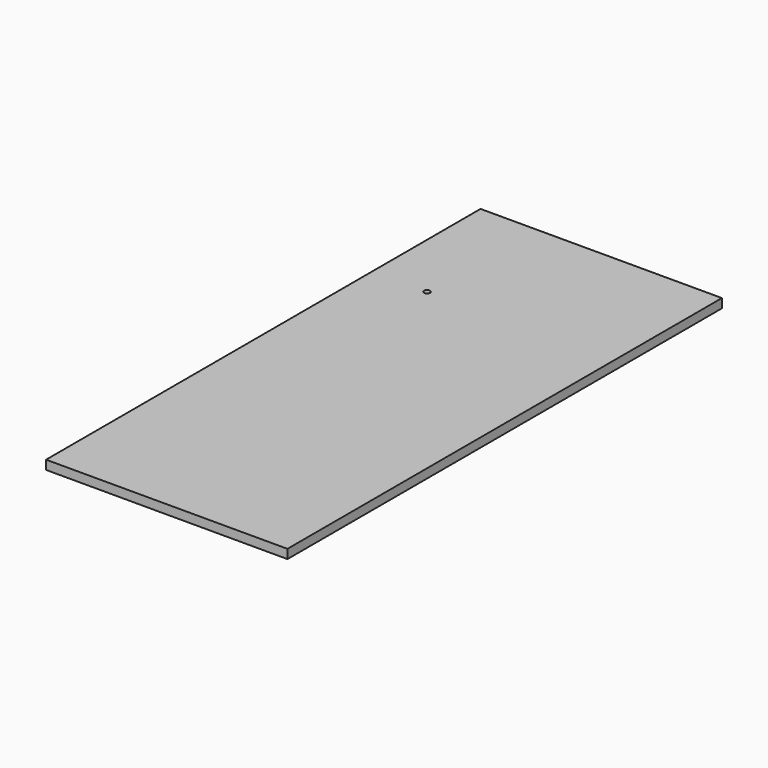
from build123d import *

# Parameters (mm, degrees)
F0_W           = 800
F0_H           = 1800
F1_DEPTH       = 30
F3_D           = 20
F3_CBORE_D     = 50
F3_CBORE_DEPTH = 5


with BuildPart() as f1:
    # F0 (on Top) → F1 (new body)
    with BuildSketch(Plane.XY):
        Rectangle(F0_W, F0_H)
    extrude(amount=F1_DEPTH)

    # F3 (through all)
    with Locations(Plane(origin=(0, 0, 0), x_dir=(1, 0, 0), z_dir=(0, 0, -1))):
        with Locations((-217.951849103, -450.6120979786)):
            CounterBoreHole(F3_D / 2, F3_CBORE_D / 2, F3_CBORE_DEPTH)


solid = f1.part
